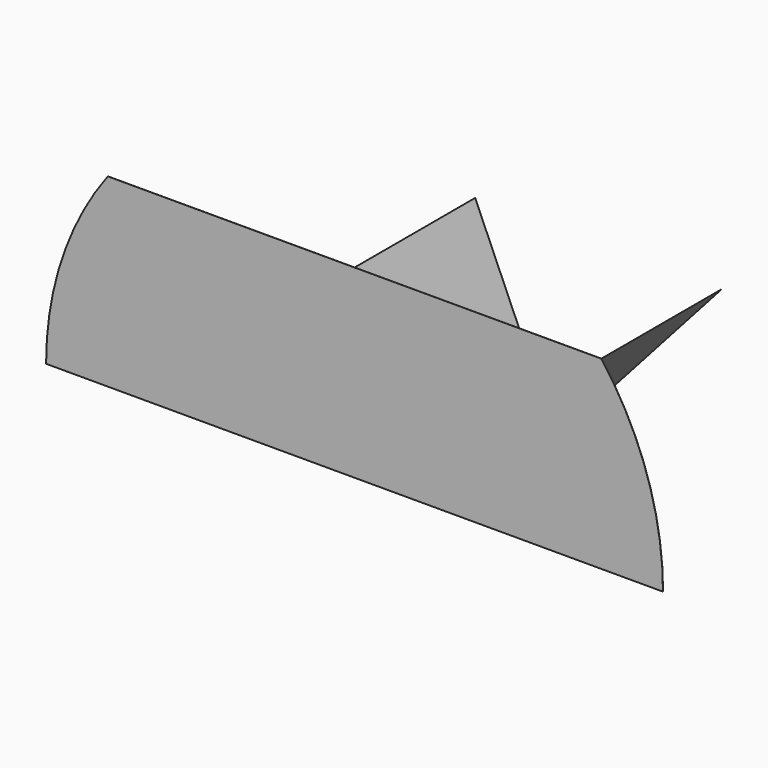
from build123d import *

# Parameters (mm, degrees)
F1_DEPTH = 55.14598
F2_DEPTH = 55.10661


with BuildPart() as f1:
    # F0 (on Front) → F1 (new body)
    with BuildSketch(Plane.XZ):
        with BuildLine():
            ThreePointArc((-91.1852765326, -5.6266334396), (-107.9612541652, -37.6424381045), (-113.7513566665, -73.320440948))
            Line((-113.7513566665, -73.320440948), (-30.1018934697, -73.320440948))
            Line((-30.1018934697, -73.320440948), (-91.1852765326, -5.6266334396))
        make_face()
        Polygon((-0.9342542419, -5.6266334396), (-30.1018934697, -73.320440948), (28.233384986, -73.320440948), align=None)
        Polygon((-91.1852765326, -5.6266334396), (-30.1018934697, -73.320440948), (-0.9342542419, -5.6266334396), align=None)
        Polygon((28.5440617805, -72.9761428087), (28.233384986, -73.320440948), (28.6947581917, -73.320440948), align=None)
        Polygon((-0.9342542419, -5.6266334396), (28.233384986, -73.320440948), (28.5440617805, -72.9761428087), align=None)
        Polygon((89.3167680488, -5.6266334396), (-0.9342542419, -5.6266334396), (28.5440617805, -72.9761428087), align=None)
        with BuildLine():
            Line((89.3167680488, -5.6266334396), (28.6947581917, -73.320440948))
            Line((28.6947581917, -73.320440948), (111.8828481828, -73.320440948))
            ThreePointArc((111.8828481828, -73.320440948), (106.0927456815, -37.6424381045), (89.3167680488, -5.6266334396))
        make_face()
        Polygon((28.5440617805, -72.9761428087), (28.6947581917, -73.320440948), (89.3167680488, -5.6266334396), align=None)
    extrude(amount=F1_DEPTH)

    # F0 (on Front) → F2 (cut)
    with BuildSketch(Plane.XZ):
        with BuildLine():
            ThreePointArc((-91.1852765326, -5.6266334396), (-107.9612541652, -37.6424381045), (-113.7513566665, -73.320440948))
            Line((-113.7513566665, -73.320440948), (-30.1018934697, -73.320440948))
            Line((-30.1018934697, -73.320440948), (-91.1852765326, -5.6266334396))
        make_face()
        Polygon((-91.1852765326, -5.6266334396), (-30.1018934697, -73.320440948), (-0.9342542419, -5.6266334396), align=None)
        Polygon((-0.9342542419, -5.6266334396), (-30.1018934697, -73.320440948), (28.233384986, -73.320440948), align=None)
        Polygon((89.3167680488, -5.6266334396), (-0.9342542419, -5.6266334396), (28.5440617805, -72.9761428087), align=None)
        with BuildLine():
            Line((89.3167680488, -5.6266334396), (28.6947581917, -73.320440948))
            Line((28.6947581917, -73.320440948), (111.8828481828, -73.320440948))
            ThreePointArc((111.8828481828, -73.320440948), (106.0927456815, -37.6424381045), (89.3167680488, -5.6266334396))
        make_face()
    extrude(amount=F2_DEPTH, mode=Mode.SUBTRACT)


solid = f1.part
